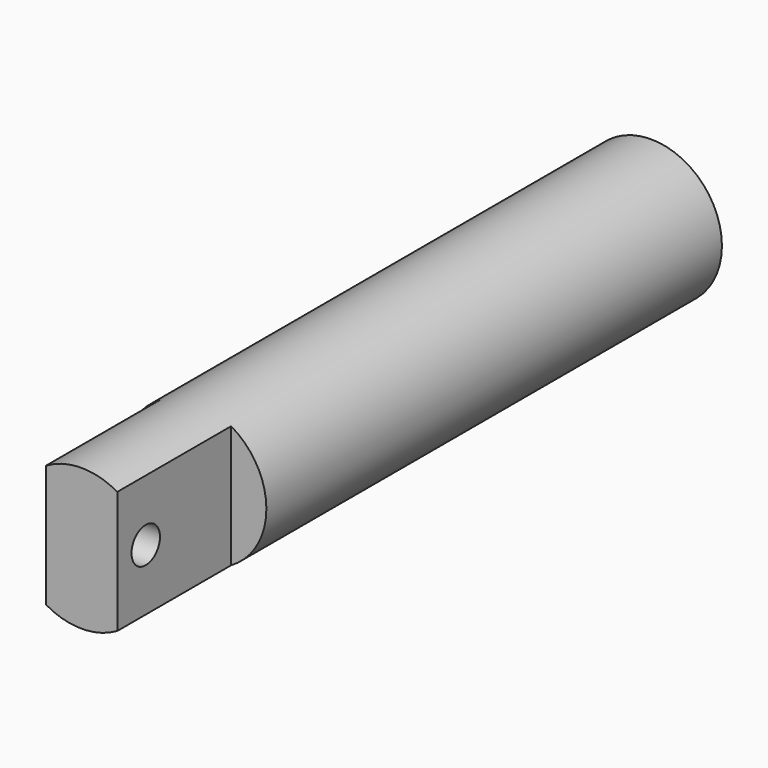
from build123d import *

# Parameters (mm, degrees)
F0_R     = 12.6365
F1_DEPTH = 127
F2_W     = 9.877775
F2_H     = 41.325386
F2_W_2   = 12.699996
F2_H_2   = 41.930149
F3_DEPTH = 25.4
F4_R     = 3.175
F5_DEPTH = 25.4


with BuildPart() as f1:
    # F0 (on Front) → F1 (new body)
    with BuildSketch(Plane.XZ):
        Circle(F0_R)
    extrude(amount=-F1_DEPTH)

    # F2 (on face) → F3 (cut)
    with BuildSketch(Plane.XZ):
        with Locations((-11.288887, -1.614631)):
            Rectangle(F2_W, F2_H)
        with Locations((12.699998, -1.917013)):
            Rectangle(F2_W_2, F2_H_2)
    extrude(amount=-F3_DEPTH, mode=Mode.SUBTRACT)

    # F4 (on face) → F5 (cut)
    with BuildSketch(Plane(origin=(-6.35, 0, 0), x_dir=(0, -1, 0), z_dir=(-1, 0, 0))):
        with Locations((-6.35, 0)):
            Circle(F4_R)
    extrude(amount=-F5_DEPTH, mode=Mode.SUBTRACT)

    # F7 (on offset) → F8 (revolve, cut)
    with BuildSketch(Plane.XZ.offset(-133.35)):
        with BuildLine():
            Line((-12.7, 0), (12.7, 0))
            ThreePointArc((12.7, 0), (0, 12.7), (-12.7, 0))
        make_face()
    revolve(axis=Axis((1.631723, 133.35, 0), (-1, 0, 0)), mode=Mode.SUBTRACT)


solid = f1.part
